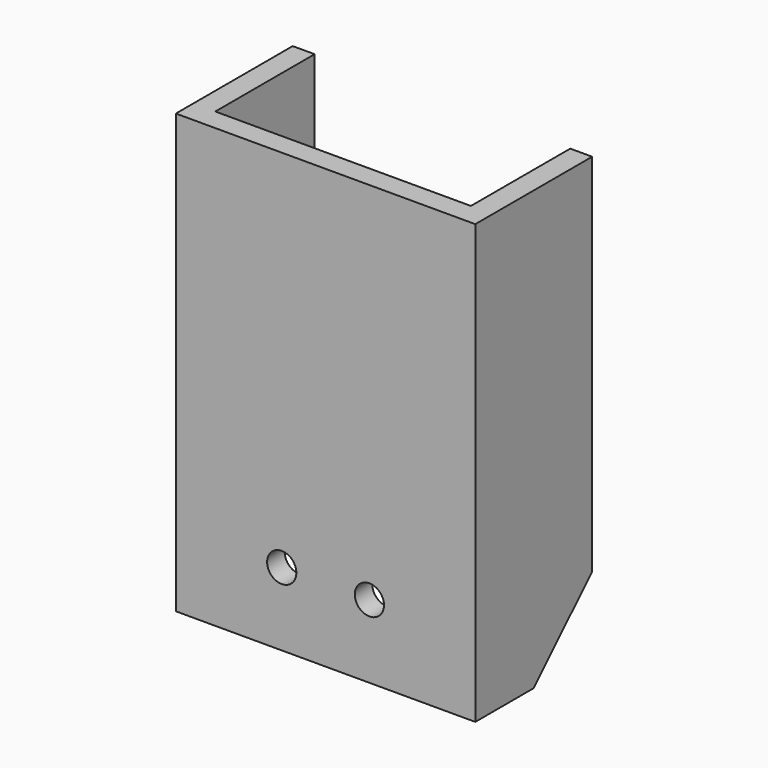
from build123d import *

# Parameters (mm, degrees)
F1_DEPTH = 60
F2_SIZE  = 10
F3_R     = 2
F4_DEPTH = 25


with BuildPart() as f1:
    # F0 (on Top) → F1 (new body)
    with BuildSketch(Plane.XY):
        Polygon((0, 20), (0, 0), (41, 0), (41, 20), (38, 20), (38, 3), (3, 3), (3, 20), align=None)
    extrude(amount=F1_DEPTH)

    # F2
    f2_edges = [f1.edges().sort_by_distance(p)[0] for p in [
        (39.5, 20, 0),
        (1.5, 20, 0),
    ]]
    chamfer(f2_edges, length=F2_SIZE)

    # F3 (on face) → F4 (cut)
    with BuildSketch(Plane(origin=(0, 3, 0), x_dir=(-1, 0, 0), z_dir=(0, 1, 0))):
        with Locations((-14.5, 10)):
            Circle(F3_R)
        with Locations((-26.5, 10)):
            Circle(F3_R)
    extrude(amount=-F4_DEPTH, mode=Mode.SUBTRACT)


solid = f1.part
